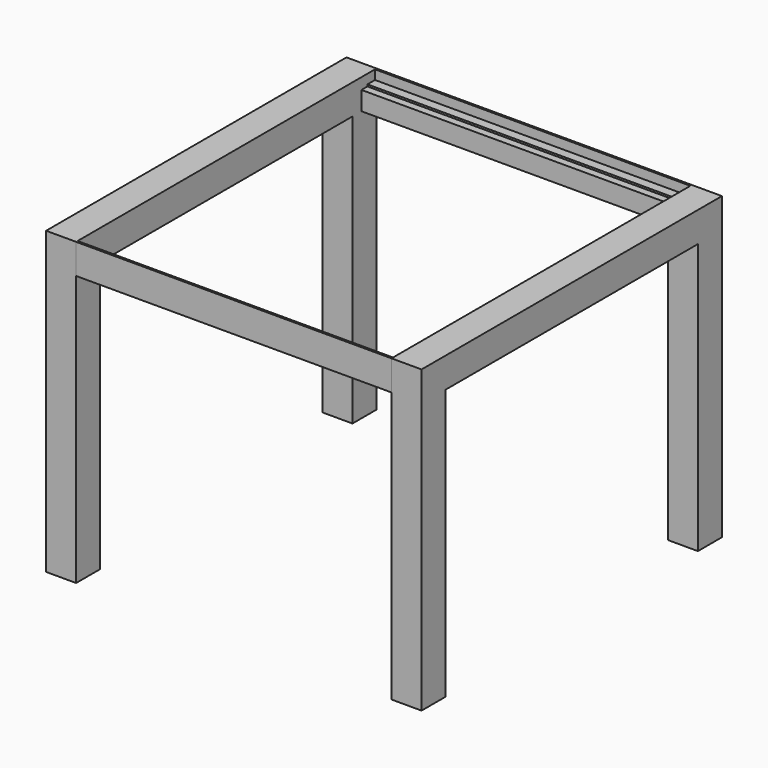
from build123d import *

# Parameters (mm, degrees)
F1_DEPTH = 8
F2_W     = 6.4551721394
F2_H     = 6.8
F2_W_2   = 6.7465151047
F3_DEPTH = 43.4
F4_W     = 4
F4_H     = 4
F5_DEPTH = 84
F6_DEPTH = 84
F7_START = 84
F7_DEPTH = 8
F8_R     = 0.5
F9_DEPTH = 4.1


with BuildPart() as f1:
    # F0 (on Right) → F1 (new body)
    with BuildSketch(Plane.YZ):
        Polygon((-60.7876732945, 45.5071360877), (-60.7876732945, -34.4928639123), (-52.7876732945, -34.4928639123), (-52.7876732945, 37.5071360877), (31.2123267055, 37.5071360877), (31.2123267055, -34.4928639123), (39.2123267055, -34.4928639123), (39.2123267055, 45.5071360877), align=None)
    extrude(amount=F1_DEPTH)

    # F2 (on Top) → F3 (cut, symmetric)
    with BuildSketch(Plane.XY):
        with Locations((4.118929035, -56.6876732945)):
            Rectangle(F2_W, F2_H)
        with Locations((3.9732575524, 35.2123267055)):
            Rectangle(F2_W_2, F2_H)
    extrude(amount=F3_DEPTH, both=True, mode=Mode.SUBTRACT)


with BuildPart() as f5:
    # F4 (on Right) → F5 (new body)
    with BuildSketch(Plane.YZ):
        Polygon((39.2096609688, 37.5071360877), (39.2096609688, 42.5071360877), (36.2096609688, 42.5071360877), (34.2096609688, 42.5071360877), (34.2096609688, 37.5071360877), align=None)
        with Locations((36.7096609688, 40.0071360877)):
            Rectangle(F4_W, F4_H, mode=Mode.SUBTRACT)
        Polygon((36.2096609688, 42.5071360877), (39.2096609688, 42.5071360877), (39.2123267055, 45.5071349033), (38.7123267055, 45.5071349033), (38.7123267055, 43.0071360877), (36.2096609688, 43.0071360877), align=None)
    extrude(amount=-F5_DEPTH)


with BuildPart() as f5b:
    # F4 (on Right) → F5, piece 2 (new body)
    with BuildSketch(Plane.YZ):
        Polygon((-55.7876732945, 37.5071360877), (-55.7876732945, 42.5071360877), (-57.7876734523, 42.5071360877), (-57.7876734523, 42.5061632327), (-60.7876732945, 42.5071360877), (-60.7876732945, 37.5071360877), align=None)
        with Locations((-58.2876732945, 39.9762127995)):
            Rectangle(F4_W, F4_H, mode=Mode.SUBTRACT)
        Polygon((-57.7876734523, 42.5061632327), (-57.7876734523, 42.5071360877), (-60.7876732945, 42.5071360877), align=None)
        Polygon((-60.7876732945, 42.5071360877), (-57.7876734523, 42.5071360877), (-57.7876734523, 43.0061632327), (-60.2876732945, 43.0061632327), (-60.2876732945, 45.4994887114), (-60.7876732945, 45.4994887114), align=None)
    extrude(amount=-F5_DEPTH)


with BuildPart() as f6:
    # F4 (on Right) → F6 (new body)
    with BuildSketch(Plane.YZ):
        Polygon((39.2096609688, 37.5071360877), (39.2096609688, 42.5071360877), (36.2096609688, 42.5071360877), (34.2096609688, 42.5071360877), (34.2096609688, 37.5071360877), align=None)
        with Locations((36.7096609688, 40.0071360877)):
            Rectangle(F4_W, F4_H, mode=Mode.SUBTRACT)
        Polygon((36.2096609688, 42.5071360877), (39.2096609688, 42.5071360877), (39.2123267055, 45.5071349033), (38.7123267055, 45.5071349033), (38.7123267055, 43.0071360877), (36.2096609688, 43.0071360877), align=None)
    extrude(amount=-F6_DEPTH)


with BuildPart() as f6b:
    # F4 (on Right) → F6, piece 2 (new body)
    with BuildSketch(Plane.YZ):
        Polygon((-55.7876732945, 37.5071360877), (-55.7876732945, 42.5071360877), (-57.7876734523, 42.5071360877), (-57.7876734523, 42.5061632327), (-60.7876732945, 42.5071360877), (-60.7876732945, 37.5071360877), align=None)
        with Locations((-58.2876732945, 39.9762127995)):
            Rectangle(F4_W, F4_H, mode=Mode.SUBTRACT)
        Polygon((-57.7876734523, 42.5061632327), (-57.7876734523, 42.5071360877), (-60.7876732945, 42.5071360877), align=None)
        Polygon((-60.7876732945, 42.5071360877), (-57.7876734523, 42.5071360877), (-57.7876734523, 43.0061632327), (-60.2876732945, 43.0061632327), (-60.2876732945, 45.4994887114), (-60.7876732945, 45.4994887114), align=None)
    extrude(amount=-F6_DEPTH)


with BuildPart() as f7:
    # F1_face (on face) → F7 (new body)
    with BuildSketch(Plane(origin=(0, -10.7876732945, 17.9005787106), x_dir=(0, 1, 0), z_dir=(-1, 0, 0)).offset(F7_START)):
        Polygon((-50, 52.393442623), (-50, -27.606557377), (50, -27.606557377), (50, 52.393442623), (42, 52.393442623), (42, -19.606557377), (-42, -19.606557377), (-42, 52.393442623), align=None)
    extrude(amount=F7_DEPTH)


with BuildPart() as f9_tool:
    # F8 (on face) → F9 (new body)
    with BuildSketch(Plane(origin=(0, 0, 37.5071360877), x_dir=(1, 0, 0), z_dir=(0, 0, -1))):
        with Locations((-80, 58.2126826048)):
            Circle(F8_R)
        with Locations((-4, 58.2126826048)):
            Circle(F8_R)
        with Locations((-3.4, -36.8255414069)):
            Circle(F8_R)
        with Locations((-80, -36.967176944)):
            Circle(F8_R)
    extrude(amount=-F9_DEPTH)


with BuildPart() as f5_1:
    add(f5.part)

    # F9: cut by f9_tool
    add(f9_tool.part, mode=Mode.SUBTRACT)


with BuildPart() as f5b_1:
    add(f5b.part)

    # F9: cut by f9_tool
    add(f9_tool.part, mode=Mode.SUBTRACT)


with BuildPart() as f6_1:
    add(f6.part)

    # F9: cut by f9_tool
    add(f9_tool.part, mode=Mode.SUBTRACT)


with BuildPart() as f6b_1:
    add(f6b.part)

    # F9: cut by f9_tool
    add(f9_tool.part, mode=Mode.SUBTRACT)


solid = Compound([f1.part, f7.part, f5_1.part, f5b_1.part, f6_1.part, f6b_1.part])
